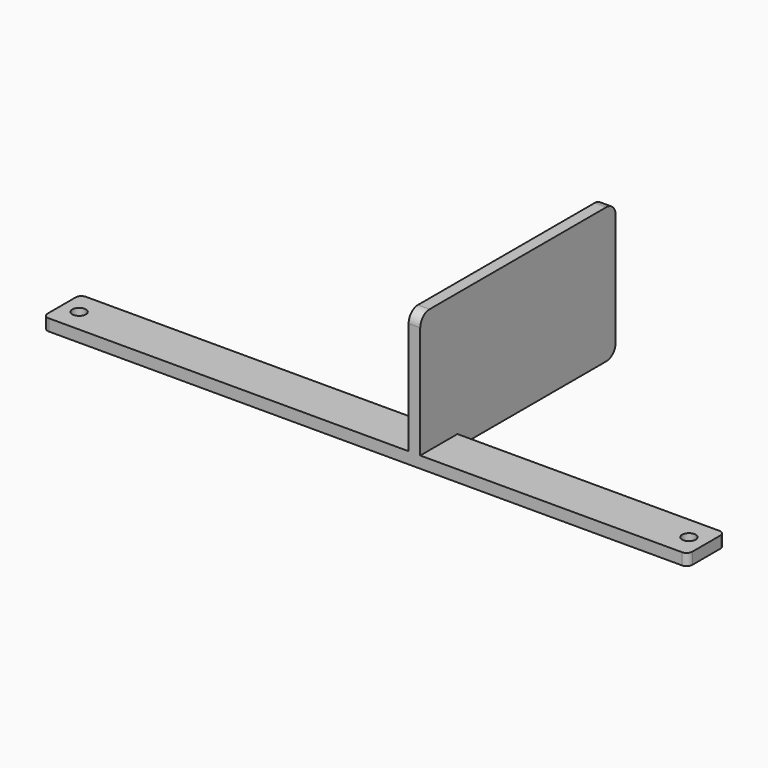
from build123d import *

# Parameters (mm, degrees)
SKETCH_R     = 1.75
PAD_DEPTH    = 3
SKETCH001_W  = 3
SKETCH001_H  = 63
PAD001_DEPTH = 35
FILLET_R     = 3


with BuildPart() as part:
    # Sketch → Pad (new body)
    with BuildSketch(Plane.XY):
        with BuildLine():
            Line((-81.65, 6), (81.65, 6))
            ThreePointArc((83.15, 4.5), (82.71066, 5.56066), (81.65, 6))
            Line((83.15, 4.5), (83.15, -4.5))
            ThreePointArc((81.65, -6), (82.71066, -5.56066), (83.15, -4.5))
            Line((81.65, -6), (-81.65, -6))
            ThreePointArc((-83.15, -4.5), (-82.71066, -5.56066), (-81.65, -6))
            Line((-83.15, -4.5), (-83.15, 4.5))
            ThreePointArc((-81.65, 6), (-82.71066, 5.56066), (-83.15, 4.5))
        make_face()
        with Locations((-78.65, 0)):
            Circle(SKETCH_R, mode=Mode.SUBTRACT)
        with Locations((78.65, 0)):
            Circle(SKETCH_R, mode=Mode.SUBTRACT)
    extrude(amount=PAD_DEPTH)

    # Sketch001 (on Face11 of Pad) → Pad001 (join)
    with BuildSketch(Plane(origin=(0, 0, 0), x_dir=(1, 0, 0), z_dir=(0, 0, -1))):
        with Locations((12.65, -25.5)):
            Rectangle(SKETCH001_W, SKETCH001_H)
    extrude(amount=-PAD001_DEPTH)

    # Fillet
    fillet_edges = [part.edges().sort_by_distance(p)[0] for p in [
        (12.65, -6, 35),
        (12.65, 57, 35),
        (12.65, 57, 0),
    ]]
    fillet(fillet_edges, radius=FILLET_R)


solid = part.part
